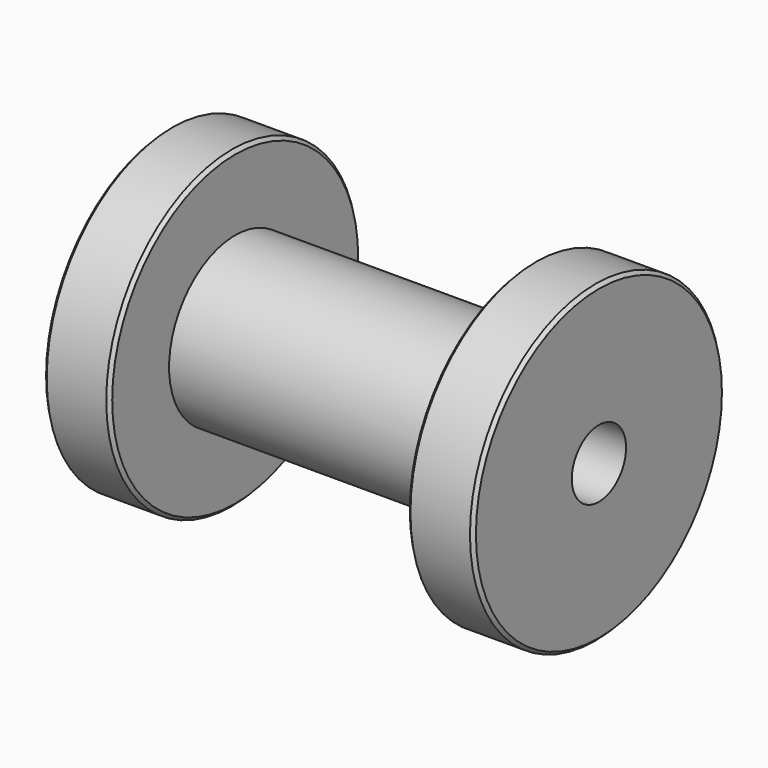
from build123d import *

# Parameters (mm, degrees)
F0_R     = 25
F0_R_2   = 10.25
F1_DEPTH = 65
F2_R     = 47.5
F2_R_2   = 25
F3_DEPTH = 20
F4_SIZE  = 1


with BuildPart() as f1:
    # F0 (on Right) → F1 (new body, symmetric)
    with BuildSketch(Plane.YZ):
        Circle(F0_R)
        Circle(F0_R_2, mode=Mode.SUBTRACT)
    extrude(amount=F1_DEPTH, both=True)

    # F2 (on face) → F3 (join)
    with BuildSketch(Plane.YZ.offset(65)):
        Circle(F2_R)
        Circle(F2_R_2, mode=Mode.SUBTRACT)
    extrude(amount=-F3_DEPTH)

    # F4
    f4_edges = [f1.edges().sort_by_distance(p)[0] for p in [
        (55, 47.5, 0),
        (65, -47.5, 0),
        (45, -47.5, 0),
    ]]
    chamfer(f4_edges, length=F4_SIZE)

    # F5: F1 across plane


with BuildPart() as f1_1:
    add(f1.part)
    add(f1.part.mirror(Plane.YZ))


solid = f1_1.part
